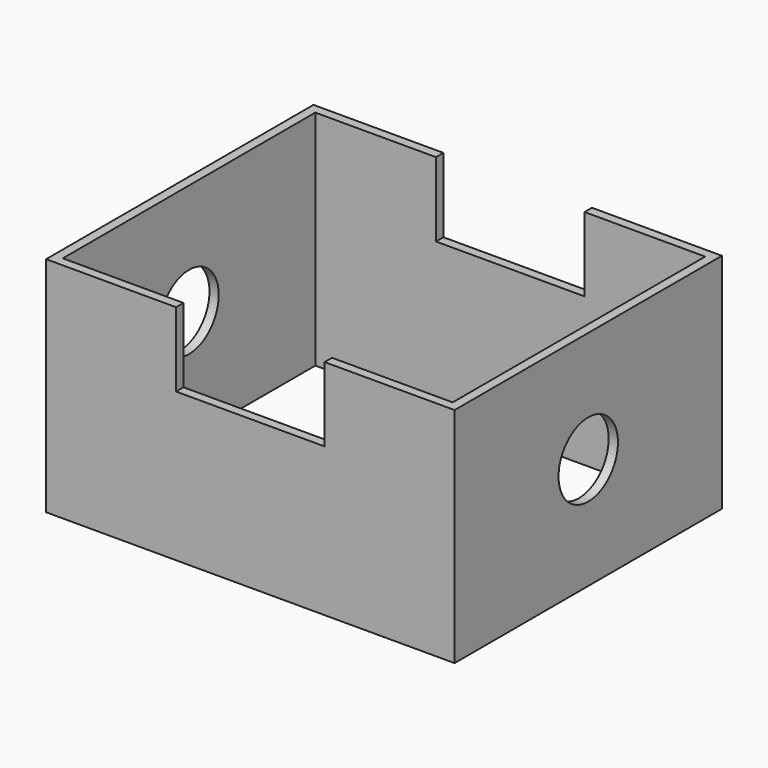
from build123d import *

# Parameters (mm, degrees)
F0_W     = 139.7
F0_H     = 114.3
F0_W_2   = 133.35
F0_H_2   = 107.95
F1_DEPTH = 76.2
F2_W     = 50.8
F2_H     = 50.8
F3_DEPTH = 127
F4_R     = 12.7
F5_DEPTH = 175.768


with BuildPart() as f1:
    # F0 (on Top) → F1 (new body)
    with BuildSketch(Plane.XY):
        with Locations((0, -6.816931)):
            Rectangle(F0_W, F0_H)
        with Locations((0, -6.816931)):
            Rectangle(F0_W_2, F0_H_2, mode=Mode.SUBTRACT)
    extrude(amount=F1_DEPTH)

    # F2 (on face) → F3 (cut)
    with BuildSketch(Plane.XZ.offset(63.966931)):
        with Locations((0, 76.2)):
            Rectangle(F2_W, F2_H)
    extrude(amount=-F3_DEPTH, mode=Mode.SUBTRACT)

    # F4 (on face) → F5 (cut)
    with BuildSketch(Plane.YZ.offset(69.85)):
        with Locations((-6.816931, 38.1)):
            Circle(F4_R)
    extrude(amount=-F5_DEPTH, mode=Mode.SUBTRACT)


solid = f1.part
